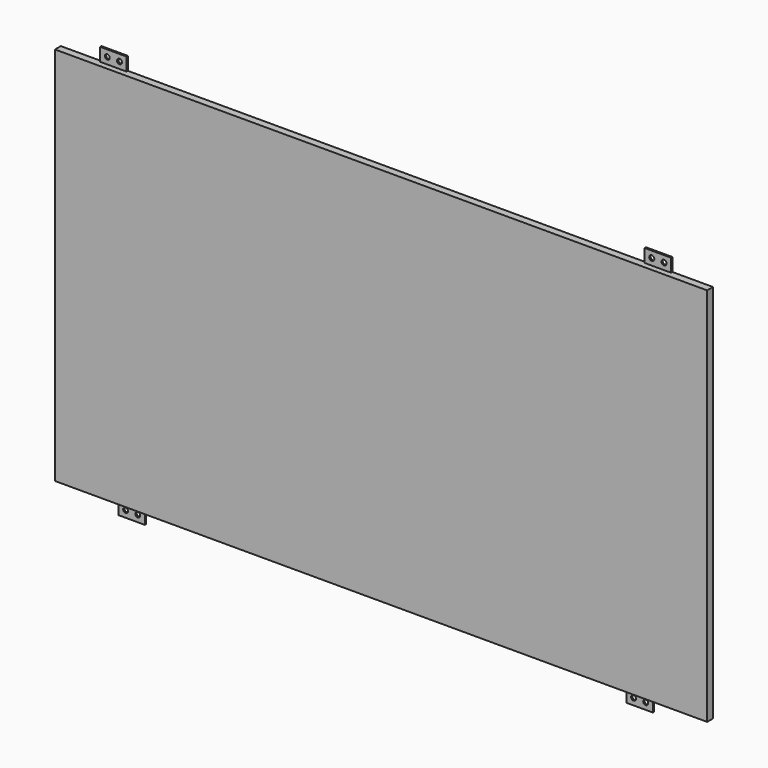
from build123d import *

# Parameters (mm, degrees)
F0_W     = 13
F0_H     = 6.5
F0_R     = 1.2
F0_R_2   = 1.25
F1_DEPTH = 0.8
F2_W     = 321
F2_H     = 187
F3_DEPTH = 2.8


with BuildPart() as f1:
    # F0 (on Front) → F1 (new body)
    with BuildSketch(Plane.XZ):
        Polygon((0, 187), (0, 0), (29, 0), (42, 0), (279, 0), (292, 0), (321, 0), (321, 187), (301, 187), (288, 187), (33, 187), (20, 187), align=None)
        with Locations((35.5, -3.25)):
            Rectangle(F0_W, F0_H)
        with Locations((32.5, -3.25)):
            Circle(F0_R, mode=Mode.SUBTRACT)
        with Locations((38.5, -3.25)):
            Circle(F0_R, mode=Mode.SUBTRACT)
        with Locations((26.5, 190.25)):
            Rectangle(F0_W, F0_H)
        with Locations((23.5, 190.25)):
            Circle(F0_R, mode=Mode.SUBTRACT)
        with Locations((29.5, 190.25)):
            Circle(F0_R, mode=Mode.SUBTRACT)
        with Locations((285.5, -3.25)):
            Rectangle(F0_W, F0_H)
        with Locations((282.5, -3.25)):
            Circle(F0_R, mode=Mode.SUBTRACT)
        with Locations((288.5, -3.25)):
            Circle(F0_R, mode=Mode.SUBTRACT)
        with Locations((294.5, 190.25)):
            Rectangle(F0_W, F0_H)
        with Locations((291.5, 190.25)):
            Circle(F0_R_2, mode=Mode.SUBTRACT)
        with Locations((297.5, 190.25)):
            Circle(F0_R_2, mode=Mode.SUBTRACT)
    extrude(amount=F1_DEPTH)

    # F2 (on face) → F3 (join)
    with BuildSketch(Plane.XZ.offset(0.8)):
        with Locations((160.5, 93.5)):
            Rectangle(F2_W, F2_H)
    extrude(amount=F3_DEPTH)


solid = f1.part
